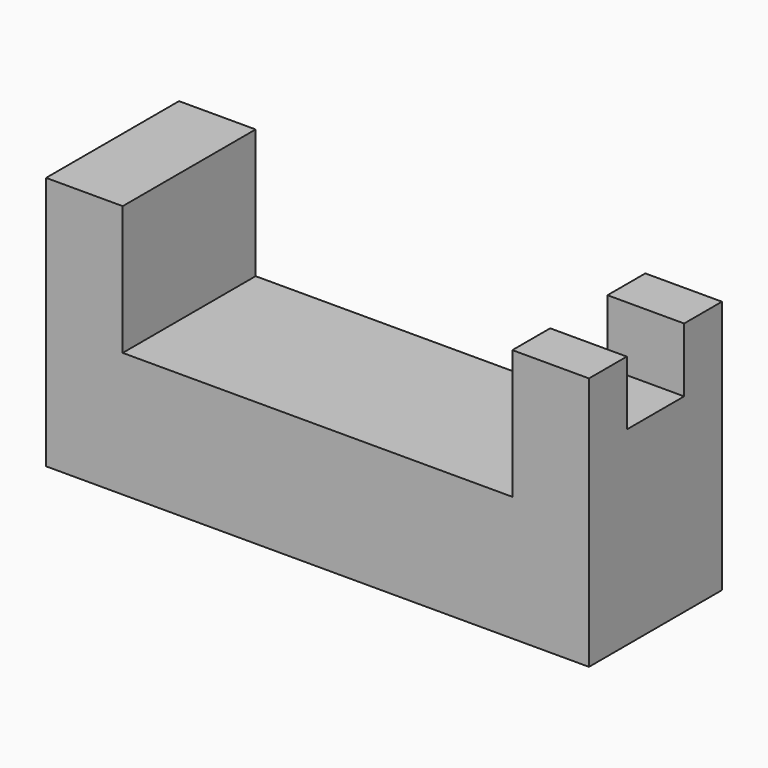
from build123d import *

# Parameters (mm, degrees)
F1_DEPTH = 65.786
F2_W     = 30.334652
F2_H     = 28.374772
F3_DEPTH = 25.4


with BuildPart() as f1:
    # F0 (on Front) → F1 (new body)
    with BuildSketch(Plane.XZ):
        Polygon((-84.349416, 76.117642), (-114.684075, 76.117642), (-114.684075, -24.425024), (100.258619, -24.425024), (100.258619, 76.117642), (69.923967, 76.117642), (69.923967, 24.977572), (-7.212728, 24.977572), (-84.349416, 24.977572), align=None)
    extrude(amount=-F1_DEPTH)

    # F2 (on face) → F3 (cut)
    with BuildSketch(Plane.XY.offset(76.117642)):
        with Locations((85.091293, 32.893)):
            Rectangle(F2_W, F2_H)
    extrude(amount=-F3_DEPTH, mode=Mode.SUBTRACT)


solid = f1.part
